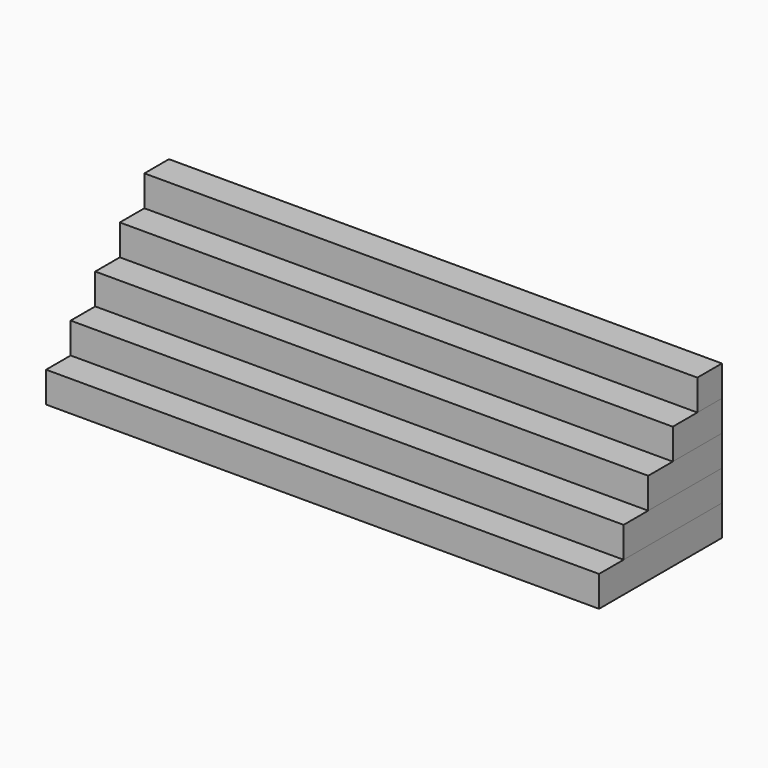
from build123d import *

# Parameters (mm, degrees)
F0_W     = 72
F0_H     = 20
F1_DEPTH = 4
F2_W     = 72
F2_H     = 16
F3_DEPTH = 4
F4_W     = 72
F4_H     = 12
F5_DEPTH = 4
F6_W     = 72
F6_H     = 8
F7_DEPTH = 4
F8_W     = 72
F8_H     = 4
F9_DEPTH = 4


with BuildPart() as f1:
    # F0 (on Top) → F1 (new body)
    with BuildSketch(Plane.XY):
        Rectangle(F0_W, F0_H)
    extrude(amount=F1_DEPTH)


with BuildPart() as f3:
    # F2 (on face) → F3 (new body)
    with BuildSketch(Plane.XY.offset(4)):
        with Locations((0, 2)):
            Rectangle(F2_W, F2_H)
    extrude(amount=F3_DEPTH)


with BuildPart() as f5:
    # F4 (on face) → F5 (new body)
    with BuildSketch(Plane.XY.offset(8)):
        with Locations((0, 4)):
            Rectangle(F4_W, F4_H)
    extrude(amount=F5_DEPTH)


with BuildPart() as f7:
    # F6 (on face) → F7 (new body)
    with BuildSketch(Plane.XY.offset(12)):
        with Locations((0, 6)):
            Rectangle(F6_W, F6_H)
    extrude(amount=F7_DEPTH)


with BuildPart() as f9:
    # F8 (on face) → F9 (new body)
    with BuildSketch(Plane.XY.offset(16)):
        with Locations((0, 8)):
            Rectangle(F8_W, F8_H)
    extrude(amount=F9_DEPTH)


solid = Compound([f1.part, f3.part, f5.part, f7.part, f9.part])
